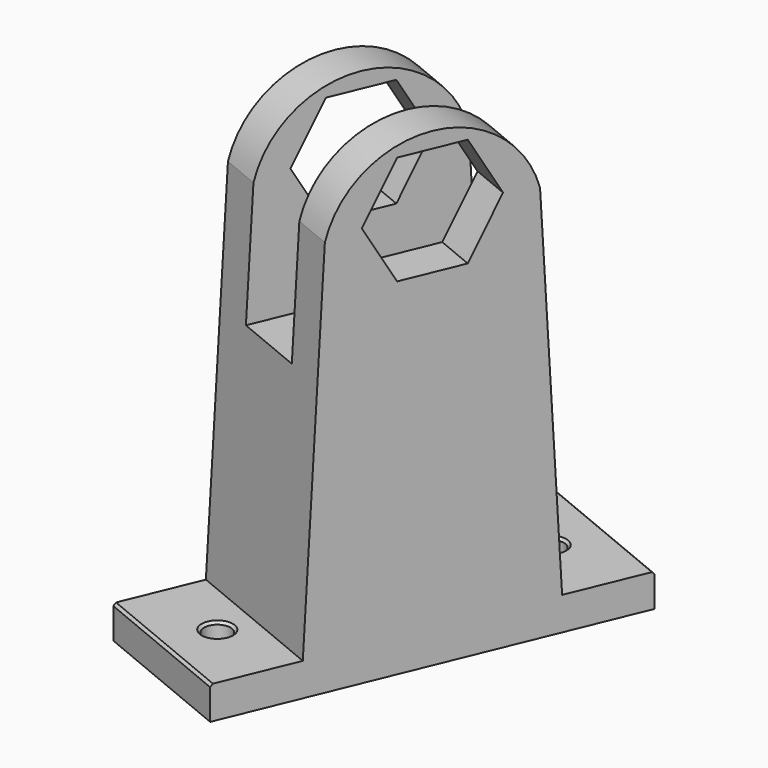
from build123d import *

# Parameters (mm, degrees)
PAD030_DEPTH            = 19
SKETCH090_W             = 9
SKETCH090_H             = 27
POCKET054_DEPTH         = 15
SKETCH089_R             = 1.6
POCKET053_DEPTH         = 5
CHAMFER010_SIZE         = 0.3
BODY020_PLACEMENT_ANGLE = 22.5


with BuildPart() as part:
    # Sketch088 → Pad030 (new body)
    with BuildSketch(Plane.YZ):
        with BuildLine():
            ThreePointArc((11.6189500386, 3), (0, 12), (-11.6189500386, 3))
            Line((-11.6189500386, 3), (-14, -41))
            Line((-24, -41), (-14, -41))
            Line((-24, -45), (-24, -41))
            Line((24, -45), (-24, -45))
            Line((24, -41), (24, -45))
            Line((14, -41), (24, -41))
            Line((14, -41), (11.6189500386, 3))
        make_face()
        Polygon((7.6210235533, 3.5), (3.8105117767, 10.1), (-3.8105117767, 10.1), (-7.6210235533, 3.5), (-3.8105117767, -3.1), (3.8105117767, -3.1), align=None, mode=Mode.SUBTRACT)
    extrude(amount=PAD030_DEPTH)

    # Sketch090 → Pocket054 (cut, symmetric)
    with BuildSketch(Plane.XZ):
        with Locations((9.5, 1.5)):
            Rectangle(SKETCH090_W, SKETCH090_H)
    extrude(amount=POCKET054_DEPTH, both=True, mode=Mode.SUBTRACT)

    # Sketch089 (on Face8 of Pocket054) → Pocket053 (cut)
    with BuildSketch(Plane.YX.offset(45)):
        with Locations((-18, 9.5)):
            Circle(SKETCH089_R)
        with Locations((18, 9.5)):
            Circle(SKETCH089_R)
    extrude(amount=-POCKET053_DEPTH, mode=Mode.SUBTRACT)

    # Chamfer010
    chamfer010_edges = [part.edges().sort_by_distance(p)[0] for p in [
        (9.5, 16.4, -41),
        (9.5, -19.6, -41),
        (9.5, -24, -41),
        (9.5, 24, -41),
    ]]
    chamfer(chamfer010_edges, length=CHAMFER010_SIZE)


with BuildPart() as part_1:
    # Body020 placement: moved
    add(part.part.moved(Location((74.8148666983, -31.0129027885, 55.1))).rotate(Axis((74.8148666983, -31.0129027885, 55.1), (0, 0, -1)), BODY020_PLACEMENT_ANGLE))


solid = part_1.part
